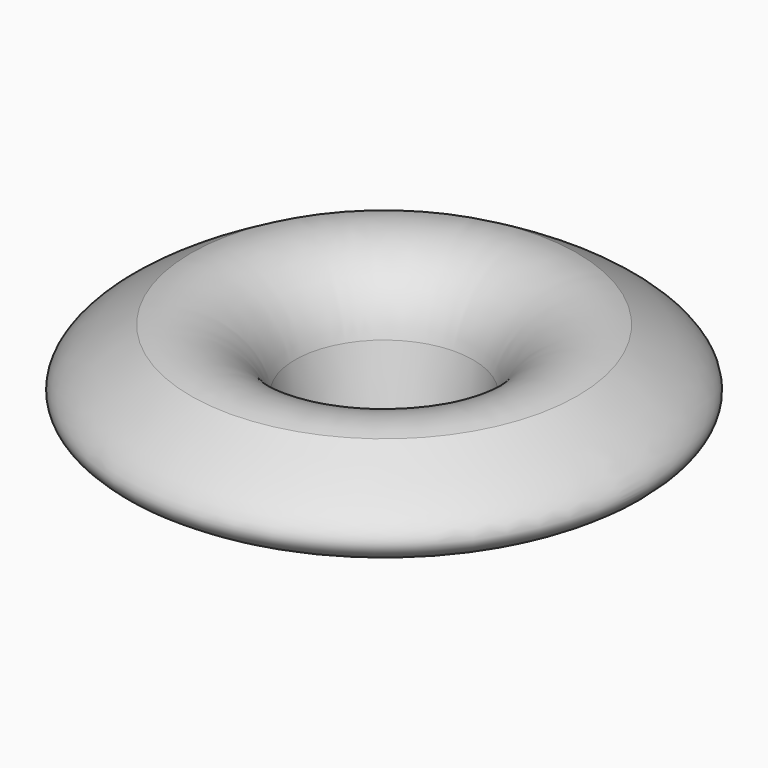
from build123d import *

# Parameters (mm, degrees)
F3_R     = 10
F4_DEPTH = 70


with BuildPart() as f1:
    # F0 (on Front) → F1 (revolve)
    with BuildSketch(Plane.XZ):
        with BuildLine():
            Line((8.0816932023, 33.2012847066), (0, 0))
            add(Edge.make_bspline(
                [(39.6098345518, 51.3299629092), (50.8487114737, 44.9464699029), (71.1888594451, 33.3936080622), (43.4098908019, 22.2136462352), (31.6934831347, 30.960210286), (21.6255014725, 14.4197503099), (7.8643533799, 5.243902077), (0, 0)],
                knots=[0, 0, 0, 0, 0.2386091016, 0.4318353575, 0.5883330866, 0.7647366295, 1, 1, 1, 1], degree=3))
            ThreePointArc((39.6098345518, 51.3299629092), (19.9588635394, 49.0254516281), (8.0816932023, 33.2012847066))
        make_face()
    revolve(axis=Axis((-18.8519395888, 0, 40.3211377561), (0, 0, 1)))

    # F3 (on offset) → F4 (cut)
    with BuildSketch(Plane.XZ.offset(80)):
        with Locations((-20, 13.108946383)):
            Circle(F3_R)
    extrude(amount=-F4_DEPTH, mode=Mode.SUBTRACT)


solid = f1.part
